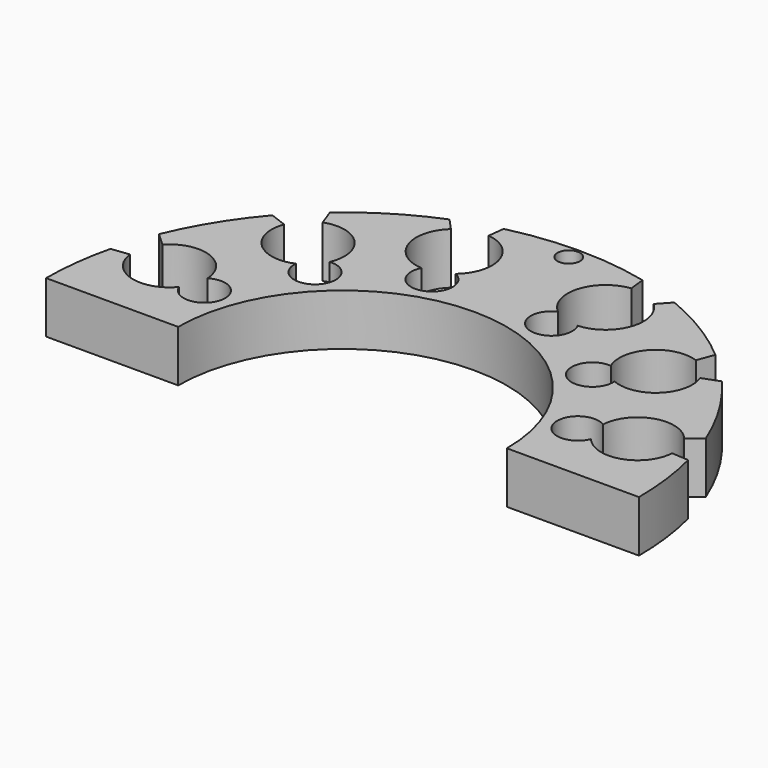
from build123d import *

# Parameters (mm, degrees)
F0_R     = 1.11278
F1_DEPTH = 5.08


with BuildPart() as f1:
    # F0 (on Top) → F1 (new body)
    with BuildSketch(Plane.XY):
        with BuildLine():
            ThreePointArc((-16.198163, 0), (0, 16.198163), (16.198163, 0))
            Line((16.198163, 0), (29.21493, 0))
            ThreePointArc((29.21493, 0), (28.989076, 3.625685), (28.315007, 7.195311))
            Line((28.315007, 7.195311), (26.650215, 7.298667))
            ThreePointArc((26.650215, 7.298667), (24.176076, 4.107999), (20.300193, 5.239043))
            ThreePointArc((20.300193, 5.239043), (16.461726, 5.366865), (19.487275, 7.732498))
            ThreePointArc((19.487275, 7.732498), (21.951756, 10.930632), (25.83104, 9.811312))
            Line((25.83104, 9.811312), (27.115017, 10.876028))
            ThreePointArc((27.115017, 10.876028), (24.968577, 15.168464), (22.148354, 19.051576))
            Line((22.148354, 19.051576), (20.497724, 18.434355))
            ThreePointArc((20.497724, 18.434355), (19.606952, 14.575136), (15.706482, 13.88711))
            ThreePointArc((15.706482, 13.88711), (12.228664, 12.25771), (13.849808, 15.739384))
            ThreePointArc((13.849808, 15.739384), (14.528579, 19.641475), (18.385674, 20.5414))
            Line((18.385674, 20.5414), (18.998977, 22.19349))
            ThreePointArc((18.998977, 22.19349), (15.233076, 24.92921), (11.080488, 27.032109))
            Line((11.080488, 27.032109), (9.98984, 25.842269))
            ThreePointArc((9.98984, 25.842269), (10.987015, 21.838828), (7.691111, 19.357112))
            ThreePointArc((7.691111, 19.357112), (5.246235, 16.44803), (5.041196, 20.242517))
            ThreePointArc((5.041196, 20.242517), (3.888406, 24.172243), (7.030199, 26.799181))
            Line((7.030199, 26.799181), (6.842575, 28.402312))
            ThreePointArc((6.842575, 28.402312), (0, 29.21493), (-6.842575, 28.402312))
            Line((-6.842575, 28.402312), (-7.030199, 26.799181))
            ThreePointArc((-7.030199, 26.799181), (-3.888406, 24.172243), (-5.041196, 20.242517))
            ThreePointArc((-5.041196, 20.242517), (-5.246235, 16.44803), (-7.691111, 19.357112))
            ThreePointArc((-7.691111, 19.357112), (-10.987015, 21.838828), (-9.98984, 25.842269))
            Line((-9.98984, 25.842269), (-11.080488, 27.032109))
            ThreePointArc((-11.080488, 27.032109), (-15.233076, 24.92921), (-18.998977, 22.19349))
            Line((-18.998977, 22.19349), (-18.385674, 20.5414))
            ThreePointArc((-18.385674, 20.5414), (-14.528579, 19.641475), (-13.849808, 15.739384))
            ThreePointArc((-13.849808, 15.739384), (-12.228664, 12.25771), (-15.706482, 13.88711))
            ThreePointArc((-15.706482, 13.88711), (-19.606952, 14.575136), (-20.497724, 18.434355))
            Line((-20.497724, 18.434355), (-22.148354, 19.051576))
            ThreePointArc((-22.148354, 19.051576), (-24.890954, 15.295507), (-27.002761, 11.151817))
            Line((-27.002761, 11.151817), (-25.705667, 9.954591))
            ThreePointArc((-25.705667, 9.954591), (-21.861689, 10.899789), (-19.487275, 7.732498))
            ThreePointArc((-19.487275, 7.732498), (-16.461726, 5.366865), (-20.300193, 5.239043))
            ThreePointArc((-20.300193, 5.239043), (-24.085137, 4.079831), (-26.633381, 7.109026))
            Line((-26.633381, 7.109026), (-28.38687, 6.906354))
            ThreePointArc((-28.38687, 6.906354), (-29.007176, 3.477909), (-29.21493, 0))
            Line((-29.21493, 0), (-16.198163, 0))
        make_face()
        with Locations((0, 27.872039)):
            Circle(F0_R, mode=Mode.SUBTRACT)
    extrude(amount=F1_DEPTH)


solid = f1.part
